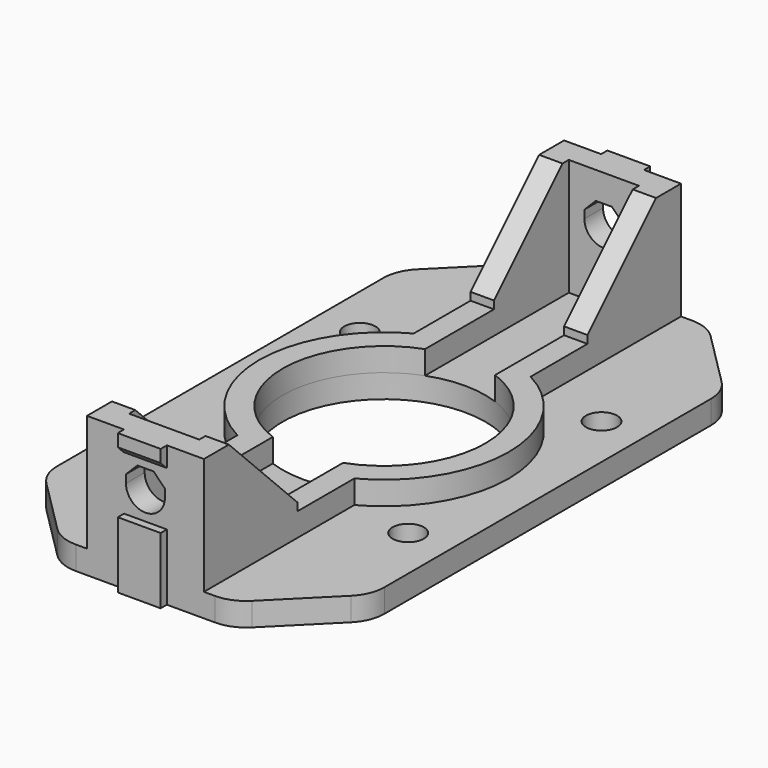
from build123d import *

# Parameters (mm, degrees)
SKETCH_W        = 42
SKETCH_H        = 76.5
SKETCH_R        = 13
SKETCH_R_2      = 2
PAD_DEPTH       = 3
PAD001_DEPTH    = 3
POCKET_DEPTH    = 3
PAD002_DEPTH    = 12
SKETCH004_W     = 5.5
SKETCH004_H     = 2.5
SKETCH004_H_2   = 8.5
PAD003_DEPTH    = 1
SKETCH005_W     = 5.5
SKETCH005_H     = 2.5
SKETCH005_H_2   = 8.5
PAD004_DEPTH    = 1
POCKET001_DEPTH = 77.501
CHAMFER_SIZE    = 11
CHAMFER001_SIZE = 10
FILLET_R        = 5
CHAMFER002_SIZE = 0.9


with BuildPart() as part:
    # Sketch → Pad (new body)
    with BuildSketch(Plane.XY):
        with Locations((21, 38.25)):
            Rectangle(SKETCH_W, SKETCH_H)
        with Locations((21, 38.25)):
            Circle(SKETCH_R, mode=Mode.SUBTRACT)
        with Locations((5.5, 22.75)):
            Circle(SKETCH_R_2, mode=Mode.SUBTRACT)
        with Locations((5.5, 53.75)):
            Circle(SKETCH_R_2, mode=Mode.SUBTRACT)
        with Locations((36.5, 53.75)):
            Circle(SKETCH_R_2, mode=Mode.SUBTRACT)
        with Locations((36.5, 22.75)):
            Circle(SKETCH_R_2, mode=Mode.SUBTRACT)
    extrude(amount=PAD_DEPTH)

    # Sketch001 → Pad001 (new body)
    with BuildSketch(Plane.XY.offset(3)):
        with BuildLine():
            Line((13.5, 76.5), (28.5, 76.5))
            Line((28.5, 76.5), (28.5, 52.383294))
            ThreePointArc((28.5, 24.116706), (37, 38.25), (28.5, 52.383294))
            Line((28.5, 0), (28.5, 24.116706))
            Line((13.5, 0), (28.5, 0))
            Line((13.5, 24.116706), (13.5, 0))
            ThreePointArc((13.5, 52.383294), (5, 38.25), (13.5, 24.116706))
            Line((13.5, 52.383294), (13.5, 76.5))
        make_face()
    extrude(amount=PAD001_DEPTH)

    # Sketch003 → Pocket (cut)
    with BuildSketch(Plane.XY.offset(6)):
        with BuildLine():
            Line((25.5, 50.446311), (25.5, 73.5))
            Line((25.5, 73.5), (16.5, 73.5))
            Line((16.5, 73.5), (16.5, 50.446311))
            ThreePointArc((16.5, 50.446311), (8, 38.25), (16.5, 26.053689))
            Line((16.5, 3), (16.5, 26.053689))
            Line((25.5, 3), (16.5, 3))
            Line((25.5, 26.053689), (25.5, 3))
            ThreePointArc((25.5, 26.053689), (34, 38.25), (25.5, 50.446311))
        make_face()
    extrude(amount=-POCKET_DEPTH, mode=Mode.SUBTRACT)

    # Sketch007 → Pad002 (new body)
    with BuildSketch(Plane.XY.offset(6)):
        Polygon((13.5, 76.5), (28.5, 76.5), (28.5, 61.5), (25.5, 61.5), (25.5, 73.5), (16.5, 73.5), (16.5, 61.5), (13.5, 61.5), align=None)
        Polygon((28.5, 0), (28.5, 15), (25.5, 15), (25.5, 3), (16.5, 3), (16.5, 15), (13.5, 15), (13.5, 0), align=None)
    extrude(amount=PAD002_DEPTH)

    # Sketch004 → Pad003 (new body)
    with BuildSketch(Plane.XZ):
        with Locations((21, 16.75)):
            Rectangle(SKETCH004_W, SKETCH004_H)
        with Locations((21, 4.25)):
            Rectangle(SKETCH004_W, SKETCH004_H_2)
    extrude(amount=PAD003_DEPTH)

    # Sketch005 → Pad004 (new body)
    with BuildSketch(Plane(origin=(0, 76.5, 0), x_dir=(-1, 0, 0), z_dir=(0, 1, 0))):
        with Locations((-21, 16.75)):
            Rectangle(SKETCH005_W, SKETCH005_H)
        with Locations((-21, 4.25)):
            Rectangle(SKETCH005_W, SKETCH005_H_2)
    extrude(amount=PAD004_DEPTH)

    # Sketch006 → Pocket001 (cut, through all)
    with BuildSketch(Plane.XZ):
        with BuildLine():
            ThreePointArc((18.5, 12), (21, 9.5), (23.5, 12))
            Line((23.5, 13.035534), (23.5, 12))
            Line((22.035534, 14.5), (23.5, 13.035534))
            Line((19.964466, 14.5), (22.035534, 14.5))
            Line((18.5, 13.035534), (19.964466, 14.5))
            Line((18.5, 12), (18.5, 13.035534))
        make_face()
    extrude(amount=-POCKET001_DEPTH, mode=Mode.SUBTRACT)

    # Chamfer
    chamfer_edges = [part.edges().sort_by_distance(p)[0] for p in [
        (15, 61.5, 18),
        (27, 61.5, 18),
        (27, 15, 18),
        (15, 15, 18),
    ]]
    chamfer(chamfer_edges, length=CHAMFER_SIZE)

    # Chamfer001
    chamfer001_edges = [part.edges().sort_by_distance(p)[0] for p in [
        (0, 0, 1.5),
        (42, 0, 1.5),
        (0, 76.5, 1.5),
        (42, 76.5, 1.5),
    ]]
    chamfer(chamfer001_edges, length=CHAMFER001_SIZE)

    # Fillet
    fillet_edges = [part.edges().sort_by_distance(p)[0] for p in [
        (10, 76.5, 1.5),
        (0, 66.5, 1.5),
        (0, 10, 1.5),
        (10, 0, 1.5),
        (32, 0, 1.5),
        (42, 10, 1.5),
        (32, 76.5, 1.5),
        (42, 66.5, 1.5),
    ]]
    fillet(fillet_edges, radius=FILLET_R)

    # Chamfer002
    chamfer002_edges = [part.edges().sort_by_distance(p)[0] for p in [
        (21, 77.5, 15.5),
        (21, -1, 15.5),
    ]]
    chamfer(chamfer002_edges, length=CHAMFER002_SIZE)


solid = part.part
